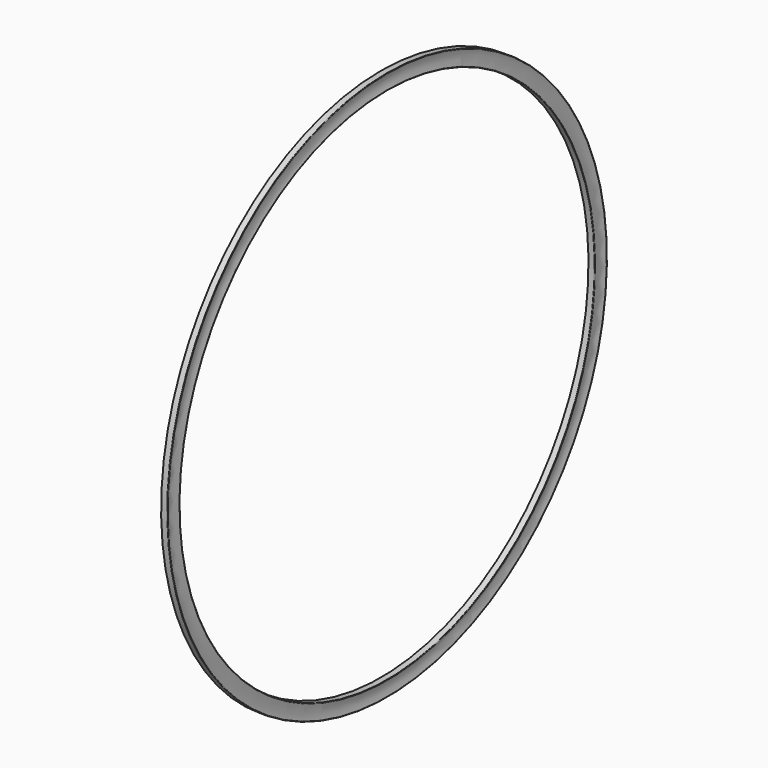
from build123d import *


with BuildPart() as f1:
    # F0 (on Front) → F1 (revolve)
    with BuildSketch(Plane.XZ):
        with BuildLine():
            ThreePointArc((-0.034799, 53.773092), (-0.045264, 53.84175), (-0.107085, 53.8734))
            Line((-0.107085, 53.8734), (-1.277829, 53.8734))
            Line((-1.277829, 53.8734), (-1.277829, 50.8762))
            Line((-1.277829, 50.8762), (-0.107085, 50.8762))
            ThreePointArc((-0.107085, 50.8762), (-0.045264, 50.90785), (-0.034799, 50.976508))
            ThreePointArc((-0.034799, 50.976508), (-0.261829, 52.3748), (-0.034799, 53.773092))
        make_face()
    revolve(axis=Axis((-3.079263, 0, 0), (-1, 0, 0)))


solid = f1.part
